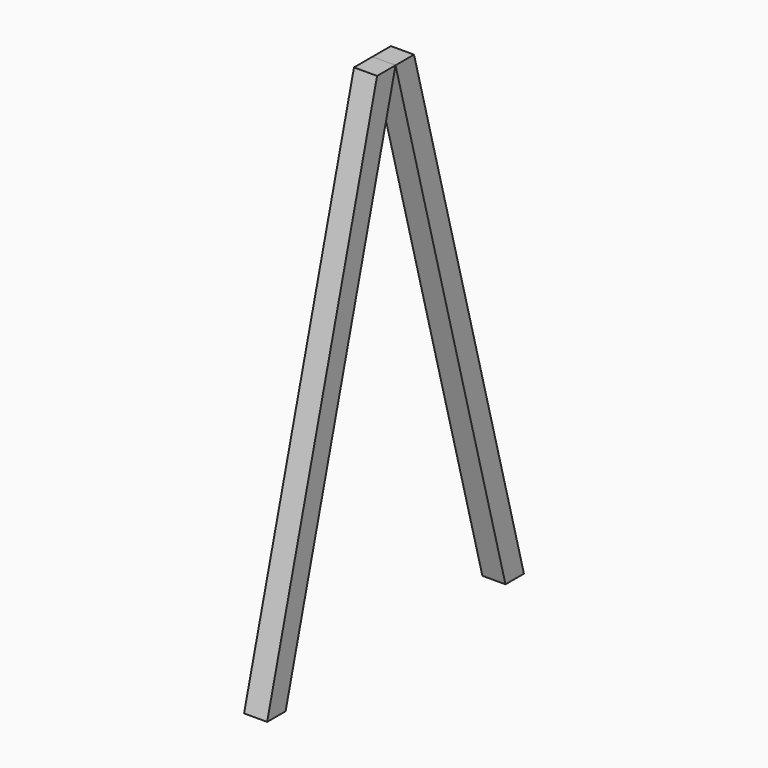
from build123d import *

# Parameters (mm, degrees)
F1_W = 90
F1_H = 90


with BuildPart() as f2:
    # F2: sweep along a path in F0
    with BuildLine(Plane.YZ) as f2_path:
        Line((483.272865, 2000), (1019.17125, 0))
    # F1 (on Top) → F2 (sweep)
    with BuildSketch(Plane.XY):
        with Locations((45, 1064.17125)):
            Rectangle(F1_W, F1_H)
    sweep(path=f2_path.line)


with BuildPart() as f3:
    # F3: sweep along a path in F0
    with BuildLine(Plane.YZ) as f3_path:
        Line((483.272865, 2000), (-52.625519, 0))
    # F1 (on Top) → F3 (sweep)
    with BuildSketch(Plane.XY):
        with Locations((45, -97.625519)):
            Rectangle(F1_W, F1_H)
    sweep(path=f3_path.line)


solid = Compound([f2.part, f3.part])
